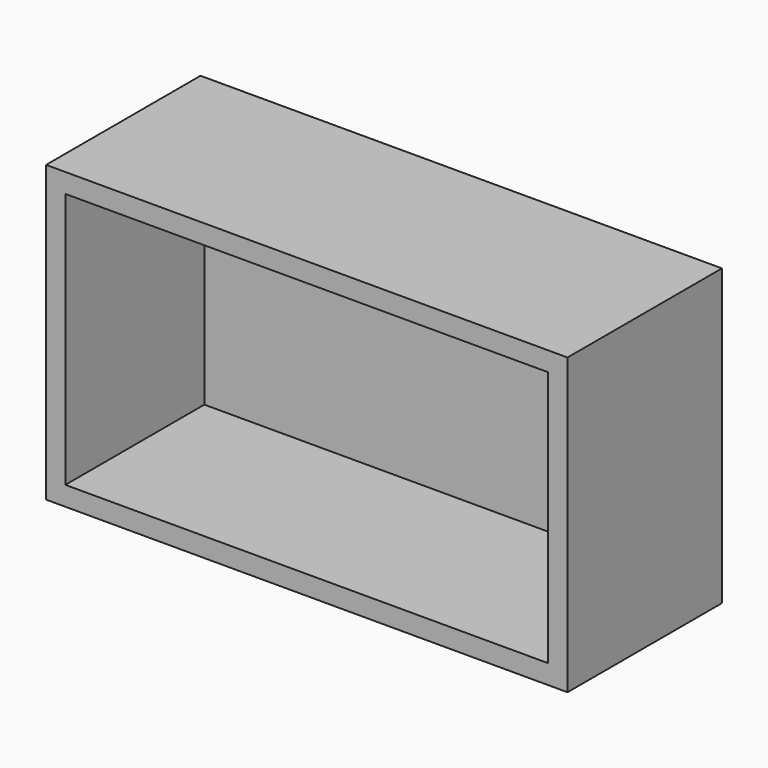
from build123d import *

# Parameters (mm, degrees)
F0_W     = 67.544527
F0_H     = 38.177334
F1_DEPTH = 12.5
F2_T     = -2.5


with BuildPart() as f1:
    # F0 (on Front) → F1 (new body, symmetric)
    with BuildSketch(Plane.XZ):
        with Locations((33.772264, 19.088667)):
            Rectangle(F0_W, F0_H)
    extrude(amount=F1_DEPTH, both=True)

    # F2
    f2_openings = [f1.faces().sort_by_distance(p)[0] for p in [
        (33.772264, -12.5, 19.088667),
    ]]
    offset(amount=F2_T, openings=f2_openings)


solid = f1.part
